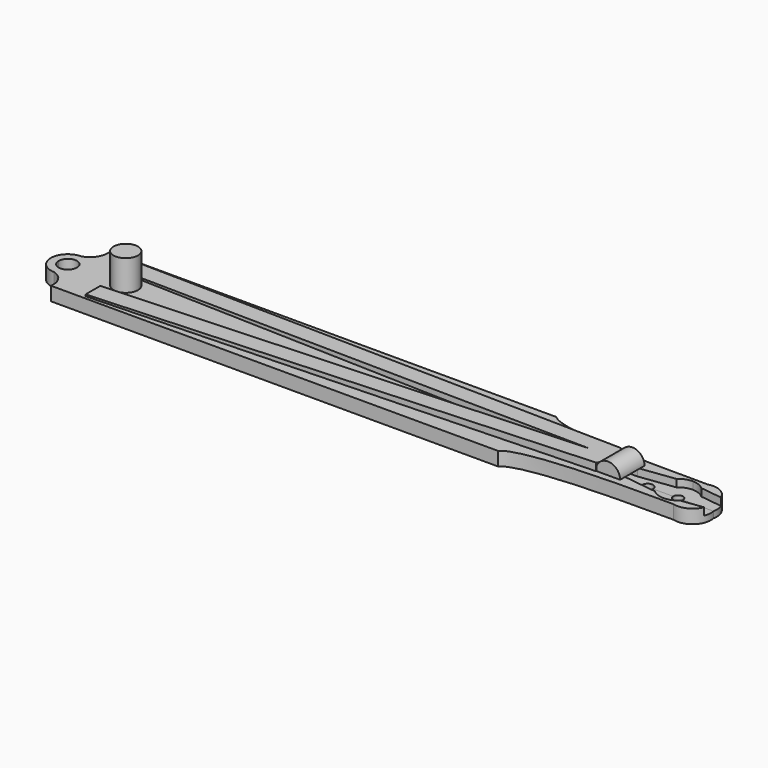
from build123d import *

# Parameters (mm, degrees)
EXTRUDE004_DEPTH = 2.45
EXTRUDE_DEPTH    = 4.5
EXTRUDE006_DEPTH = 30
EXTRUDE005_DEPTH = 3
PAD_DEPTH        = 5
PAD_DEPTH_BACK   = -5
SKETCH015_R      = 1.8
POCKET_DEPTH     = 14
SKETCH017_R      = 4
PAD001_DEPTH     = 10


with BuildPart() as extrude004:
    # Sketch008 (on Face9 of Extrude) → Extrude004 (new body)
    with BuildSketch(Plane(origin=(0, 0, 4.5), x_dir=(0, 1, 0), z_dir=(0, 0, 1))):
        with BuildLine():
            Line((0, 19), (2.9, 19))
            Line((2.9, 19), (2.9, 15.682663))
            Line((4.4, 4.079216), (2.9, 15.682663))
            ThreePointArc((6, 0), (5.585696, 2.19089), (4.4, 4.079216))
            Line((0, 0), (6, 0))
            Line((0, 0), (0, 19))
        make_face()
    extrude(amount=-EXTRUDE004_DEPTH)


with BuildPart() as fusion003:
    # Part__Mirroring002: instance of Extrude004
    add(extrude004.part.mirror(Plane(origin=(0, 0, 0), x_dir=(0, -1, 0), z_dir=(1, 0, 0))))

    # Fusion003: union Extrude004
    add(extrude004.part)


with BuildPart() as cut:
    # Sketch001 → Extrude (new body)
    with BuildSketch(Plane.XY):
        with BuildLine():
            ThreePointArc((-200, 5.572639), (-196.759552, 8.020606), (-195.948707, 12))
            Line((-195.948707, 12), (-49.447849, 12))
            add(Edge.make_bspline(
                [(4.051293, 7), (-44.340996, 6.588548), (-49.447849, 12)],
                knots=[0, 0, 0, 1, 1, 1], degree=2))
            ThreePointArc((4.051293, 7), (9.785764, 5.613765), (11.6, 0))
            Line((11.6, 0), (1.6, 0))
            ThreePointArc((1.6, 0), (0, 1.6), (-1.6, 0))
            Line((-1.6, 0), (-90.499023, 0))
            Line((-90.499023, 0), (-197, 0))
            ThreePointArc((-197, 0), (-200, 3), (-203, 0))
            Line((-203, 0), (-205.572639, 0))
            ThreePointArc((-205.572639, 0), (-203.940451, 3.940451), (-200, 5.572639))
        make_face()
    extrude(amount=EXTRUDE_DEPTH)

    # Cut: cut Fusion003
    add(fusion003.part, mode=Mode.SUBTRACT)


with BuildPart() as part_mirroring:
    # Part__Mirroring: instance of Cut
    add(cut.part.mirror(Plane(origin=(0, 0, 0), x_dir=(1, 0, 0), z_dir=(0, 1, 0))))


with BuildPart() as fusion:
    # Fusion base: copy of Cut
    add(cut.part)

    # Fusion: union Part__Mirroring
    add(part_mirroring.part)


with BuildPart() as extrude006:
    # Sketch013 → Extrude006 (new body, symmetric)
    with BuildSketch(Plane.XZ):
        Polygon((-190, 5), (-22.11842, 7), (-190, 7), align=None)
    extrude(amount=EXTRUDE006_DEPTH, both=True)


with BuildPart() as body:
    # Sketch012 → Extrude005 (new body)
    with BuildSketch(Plane.XY.offset(4)):
        with BuildLine():
            Line((-185.354797, 11.026761), (-22.840828, 5.142419))
            ThreePointArc((-22.840828, -5.142419), (-20.938647, 0), (-22.840828, 5.142419))
            Line((-22.840828, -5.142419), (-185.354797, -11.026761))
            Line((-185.354797, -11.026761), (-185.354797, -5.026761))
            Line((-185.354797, -5.026761), (-28.840828, 0))
            Line((-28.840828, 0), (-185.354797, 5.026761))
            Line((-185.354797, 5.026761), (-185.354797, 11.026761))
        make_face()
    extrude(amount=EXTRUDE005_DEPTH)

    # Cut001: cut Extrude006
    add(extrude006.part, mode=Mode.SUBTRACT)

    # Fusion004: union Fusion
    add(fusion.part)

    # Sketch → Pad (new body, two sides)
    with BuildSketch(Plane.XZ) as pad_sk:
        with BuildLine():
            ThreePointArc((-15, 4.5), (-19, 8.5), (-23, 4.5))
            Line((-23, 4.5), (-15, 4.5))
        make_face()
    extrude(amount=-PAD_DEPTH)
    extrude(pad_sk.sketch, amount=-PAD_DEPTH_BACK)

    # Sketch015 → Pocket (cut, symmetric)
    with BuildSketch(Plane.XY.offset(4)):
        with Locations((-10, 0)):
            Circle(SKETCH015_R)
    extrude(amount=POCKET_DEPTH, both=True, mode=Mode.SUBTRACT)

    # Sketch017 (on Face7 of Pocket) → Pad001 (join)
    with BuildSketch(Plane(origin=(-113.60842, 0, 4.5), x_dir=(0, 1, 0), z_dir=(0, 0, 1))):
        with Locations((0, 67.406453)):
            Circle(SKETCH017_R)
    extrude(amount=PAD001_DEPTH)


solid = body.part
